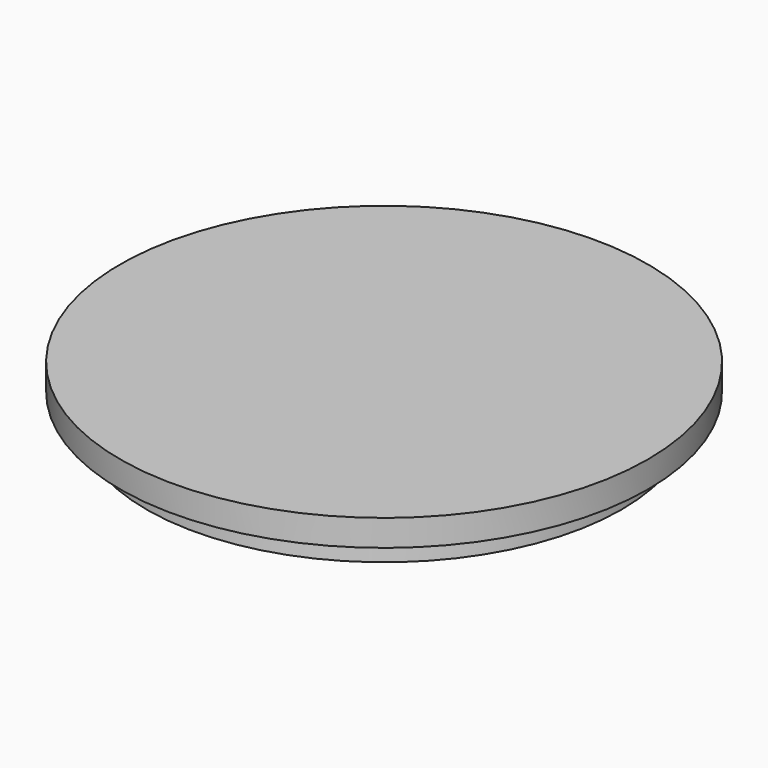
from build123d import *

# Parameters (mm, degrees)
F0_R     = 10
F1_DEPTH = 2
F2_R     = 10
F2_R_2   = 9
F3_DEPTH = 1
F3_TAPER = -3


with BuildPart() as f1:
    # F0 (on Top) → F1 (new body)
    with BuildSketch(Plane.XY):
        Circle(F0_R)
    extrude(amount=F1_DEPTH)

    # F2 (on face) → F3 (cut)
    with BuildSketch(Plane(origin=(0, 0, 0), x_dir=(1, 0, 0), z_dir=(0, 0, -1))):
        Circle(F2_R)
        Circle(F2_R_2, mode=Mode.SUBTRACT)
    extrude(amount=-F3_DEPTH, taper=F3_TAPER, mode=Mode.SUBTRACT)


solid = f1.part
